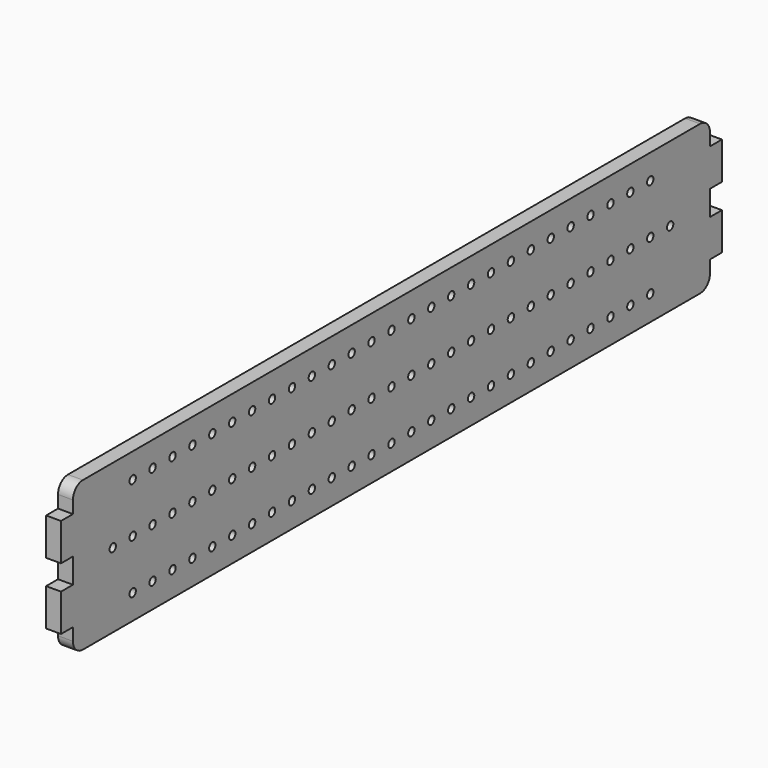
from build123d import *

# Parameters (mm, degrees)
F0_R     = 1.6
F1_DEPTH = 6


with BuildPart() as f1:
    # F0 (on Right) → F1 (new body)
    with BuildSketch(Plane.YZ):
        with BuildLine():
            Line((0, 0.585502), (155, 0.585502))
            ThreePointArc((155, 0.585502), (158.535534, 2.049968), (160, 5.585502))
            Line((160, 5.585502), (160, 10.585502))
            Line((160, 10.585502), (166, 10.585502))
            Line((166, 10.585502), (166, 25.585502))
            Line((166, 25.585502), (160, 25.585502))
            Line((160, 25.585502), (160, 35.585502))
            Line((160, 35.585502), (166, 35.585502))
            Line((166, 35.585502), (166, 50.585502))
            Line((166, 50.585502), (160, 50.585502))
            Line((160, 50.585502), (160, 55.585502))
            ThreePointArc((160, 55.585502), (158.535534, 59.121036), (155, 60.585502))
            Line((155, 60.585502), (0, 60.585502))
            Line((0, 60.585502), (-155, 60.585502))
            ThreePointArc((-155, 60.585502), (-158.535534, 59.121036), (-160, 55.585502))
            Line((-160, 55.585502), (-160, 50.585502))
            Line((-160, 50.585502), (-166, 50.585502))
            Line((-166, 50.585502), (-166, 35.585502))
            Line((-166, 35.585502), (-160, 35.585502))
            Line((-160, 35.585502), (-160, 25.585502))
            Line((-160, 25.585502), (-166, 25.585502))
            Line((-166, 25.585502), (-166, 10.585502))
            Line((-166, 10.585502), (-160, 10.585502))
            Line((-160, 10.585502), (-160, 5.585502))
            ThreePointArc((-160, 5.585502), (-158.535534, 2.049968), (-155, 0.585502))
            Line((-155, 0.585502), (0, 0.585502))
        make_face()
        with Locations((-130, 10.585502)):
            Circle(F0_R, mode=Mode.SUBTRACT)
        with Locations((-120, 10.585502)):
            Circle(F0_R, mode=Mode.SUBTRACT)
        with Locations((-110, 10.585502)):
            Circle(F0_R, mode=Mode.SUBTRACT)
        with Locations((-100, 10.585502)):
            Circle(F0_R, mode=Mode.SUBTRACT)
        with Locations((-90, 10.585502)):
            Circle(F0_R, mode=Mode.SUBTRACT)
        with Locations((-80, 10.585502)):
            Circle(F0_R, mode=Mode.SUBTRACT)
        with Locations((-70, 10.585502)):
            Circle(F0_R, mode=Mode.SUBTRACT)
        with Locations((-60, 10.585502)):
            Circle(F0_R, mode=Mode.SUBTRACT)
        with Locations((-50, 10.585502)):
            Circle(F0_R, mode=Mode.SUBTRACT)
        with Locations((-40, 10.585502)):
            Circle(F0_R, mode=Mode.SUBTRACT)
        with Locations((-30, 10.585502)):
            Circle(F0_R, mode=Mode.SUBTRACT)
        with Locations((-20, 10.585502)):
            Circle(F0_R, mode=Mode.SUBTRACT)
        with Locations((-10, 10.585502)):
            Circle(F0_R, mode=Mode.SUBTRACT)
        with Locations((0, 10.585502)):
            Circle(F0_R, mode=Mode.SUBTRACT)
        with Locations((10, 10.585502)):
            Circle(F0_R, mode=Mode.SUBTRACT)
        with Locations((20, 10.585502)):
            Circle(F0_R, mode=Mode.SUBTRACT)
        with Locations((30, 10.585502)):
            Circle(F0_R, mode=Mode.SUBTRACT)
        with Locations((40, 10.585502)):
            Circle(F0_R, mode=Mode.SUBTRACT)
        with Locations((50, 10.585502)):
            Circle(F0_R, mode=Mode.SUBTRACT)
        with Locations((60, 10.585502)):
            Circle(F0_R, mode=Mode.SUBTRACT)
        with Locations((70, 10.585502)):
            Circle(F0_R, mode=Mode.SUBTRACT)
        with Locations((80, 10.585502)):
            Circle(F0_R, mode=Mode.SUBTRACT)
        with Locations((90, 10.585502)):
            Circle(F0_R, mode=Mode.SUBTRACT)
        with Locations((100, 10.585502)):
            Circle(F0_R, mode=Mode.SUBTRACT)
        with Locations((110, 10.585502)):
            Circle(F0_R, mode=Mode.SUBTRACT)
        with Locations((120, 10.585502)):
            Circle(F0_R, mode=Mode.SUBTRACT)
        with Locations((130, 10.585502)):
            Circle(F0_R, mode=Mode.SUBTRACT)
        with Locations((-140, 30.585502)):
            Circle(F0_R, mode=Mode.SUBTRACT)
        with Locations((-130, 30.585502)):
            Circle(F0_R, mode=Mode.SUBTRACT)
        with Locations((-120, 30.585502)):
            Circle(F0_R, mode=Mode.SUBTRACT)
        with Locations((-110, 30.585502)):
            Circle(F0_R, mode=Mode.SUBTRACT)
        with Locations((-100, 30.585502)):
            Circle(F0_R, mode=Mode.SUBTRACT)
        with Locations((-90, 30.585502)):
            Circle(F0_R, mode=Mode.SUBTRACT)
        with Locations((-80, 30.585502)):
            Circle(F0_R, mode=Mode.SUBTRACT)
        with Locations((-70, 30.585502)):
            Circle(F0_R, mode=Mode.SUBTRACT)
        with Locations((-60, 30.585502)):
            Circle(F0_R, mode=Mode.SUBTRACT)
        with Locations((-50, 30.585502)):
            Circle(F0_R, mode=Mode.SUBTRACT)
        with Locations((-40, 30.585502)):
            Circle(F0_R, mode=Mode.SUBTRACT)
        with Locations((-30, 30.585502)):
            Circle(F0_R, mode=Mode.SUBTRACT)
        with Locations((-20, 30.585502)):
            Circle(F0_R, mode=Mode.SUBTRACT)
        with Locations((-10, 30.585502)):
            Circle(F0_R, mode=Mode.SUBTRACT)
        with Locations((-130, 50.585502)):
            Circle(F0_R, mode=Mode.SUBTRACT)
        with Locations((-120, 50.585502)):
            Circle(F0_R, mode=Mode.SUBTRACT)
        with Locations((-110, 50.585502)):
            Circle(F0_R, mode=Mode.SUBTRACT)
        with Locations((-100, 50.585502)):
            Circle(F0_R, mode=Mode.SUBTRACT)
        with Locations((-90, 50.585502)):
            Circle(F0_R, mode=Mode.SUBTRACT)
        with Locations((-80, 50.585502)):
            Circle(F0_R, mode=Mode.SUBTRACT)
        with Locations((-70, 50.585502)):
            Circle(F0_R, mode=Mode.SUBTRACT)
        with Locations((-60, 50.585502)):
            Circle(F0_R, mode=Mode.SUBTRACT)
        with Locations((-50, 50.585502)):
            Circle(F0_R, mode=Mode.SUBTRACT)
        with Locations((-40, 50.585502)):
            Circle(F0_R, mode=Mode.SUBTRACT)
        with Locations((-30, 50.585502)):
            Circle(F0_R, mode=Mode.SUBTRACT)
        with Locations((-20, 50.585502)):
            Circle(F0_R, mode=Mode.SUBTRACT)
        with Locations((-10, 50.585502)):
            Circle(F0_R, mode=Mode.SUBTRACT)
        with Locations((0, 30.585502)):
            Circle(F0_R, mode=Mode.SUBTRACT)
        with Locations((10, 30.585502)):
            Circle(F0_R, mode=Mode.SUBTRACT)
        with Locations((20, 30.585502)):
            Circle(F0_R, mode=Mode.SUBTRACT)
        with Locations((30, 30.585502)):
            Circle(F0_R, mode=Mode.SUBTRACT)
        with Locations((40, 30.585502)):
            Circle(F0_R, mode=Mode.SUBTRACT)
        with Locations((50, 30.585502)):
            Circle(F0_R, mode=Mode.SUBTRACT)
        with Locations((60, 30.585502)):
            Circle(F0_R, mode=Mode.SUBTRACT)
        with Locations((70, 30.585502)):
            Circle(F0_R, mode=Mode.SUBTRACT)
        with Locations((80, 30.585502)):
            Circle(F0_R, mode=Mode.SUBTRACT)
        with Locations((90, 30.585502)):
            Circle(F0_R, mode=Mode.SUBTRACT)
        with Locations((100, 30.585502)):
            Circle(F0_R, mode=Mode.SUBTRACT)
        with Locations((110, 30.585502)):
            Circle(F0_R, mode=Mode.SUBTRACT)
        with Locations((120, 30.585502)):
            Circle(F0_R, mode=Mode.SUBTRACT)
        with Locations((130, 30.585502)):
            Circle(F0_R, mode=Mode.SUBTRACT)
        with Locations((140, 30.585502)):
            Circle(F0_R, mode=Mode.SUBTRACT)
        with Locations((0, 50.585502)):
            Circle(F0_R, mode=Mode.SUBTRACT)
        with Locations((10, 50.585502)):
            Circle(F0_R, mode=Mode.SUBTRACT)
        with Locations((20, 50.585502)):
            Circle(F0_R, mode=Mode.SUBTRACT)
        with Locations((30, 50.585502)):
            Circle(F0_R, mode=Mode.SUBTRACT)
        with Locations((40, 50.585502)):
            Circle(F0_R, mode=Mode.SUBTRACT)
        with Locations((50, 50.585502)):
            Circle(F0_R, mode=Mode.SUBTRACT)
        with Locations((60, 50.585502)):
            Circle(F0_R, mode=Mode.SUBTRACT)
        with Locations((70, 50.585502)):
            Circle(F0_R, mode=Mode.SUBTRACT)
        with Locations((80, 50.585502)):
            Circle(F0_R, mode=Mode.SUBTRACT)
        with Locations((90, 50.585502)):
            Circle(F0_R, mode=Mode.SUBTRACT)
        with Locations((100, 50.585502)):
            Circle(F0_R, mode=Mode.SUBTRACT)
        with Locations((110, 50.585502)):
            Circle(F0_R, mode=Mode.SUBTRACT)
        with Locations((120, 50.585502)):
            Circle(F0_R, mode=Mode.SUBTRACT)
        with Locations((130, 50.585502)):
            Circle(F0_R, mode=Mode.SUBTRACT)
    extrude(amount=F1_DEPTH)


solid = f1.part
